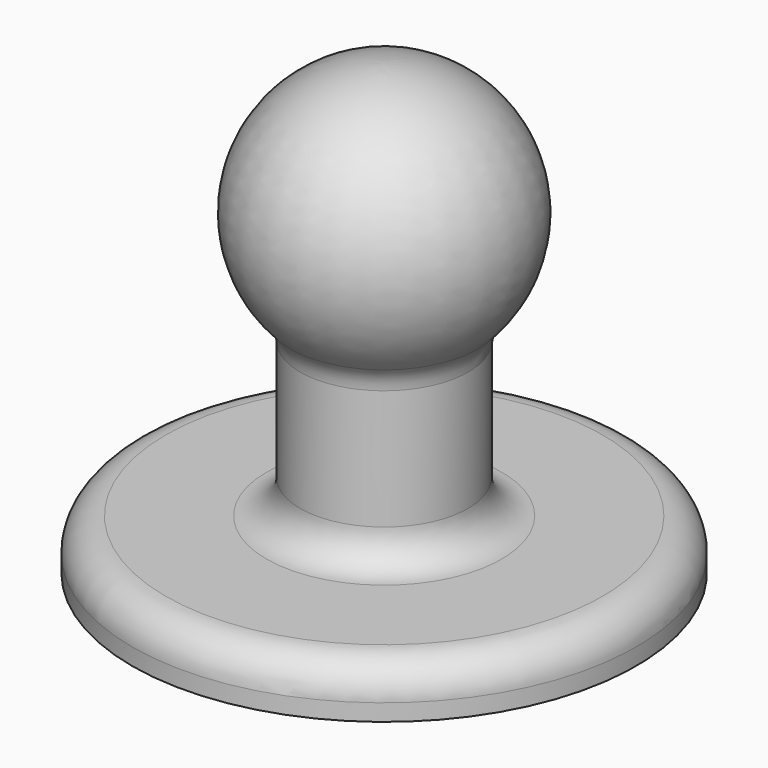
from build123d import *

# Parameters (mm, degrees)
F2_R = 2


with BuildPart() as f1:
    # F0 (on Front) → F1 (revolve)
    with BuildSketch(Plane.XZ):
        with BuildLine():
            Line((-15, 0), (0, 0))
            Line((0, 0), (0, 26.613601))
            ThreePointArc((0, 26.613601), (-7.251382, 21.551887), (-5, 13))
            Line((-5, 13), (-5, 3))
            Line((-5, 3), (-15, 3))
            Line((-15, 3), (-15, 0))
        make_face()
    revolve(axis=Axis((0, 0, 13.306801), (0, 0, -1)))

    # F2
    f2_edges = [f1.edges().sort_by_distance(p)[0] for p in [
        (5, 0, 3),
        (5, 0, 13),
        (15, 0, 3),
    ]]
    fillet(f2_edges, radius=F2_R)


solid = f1.part
